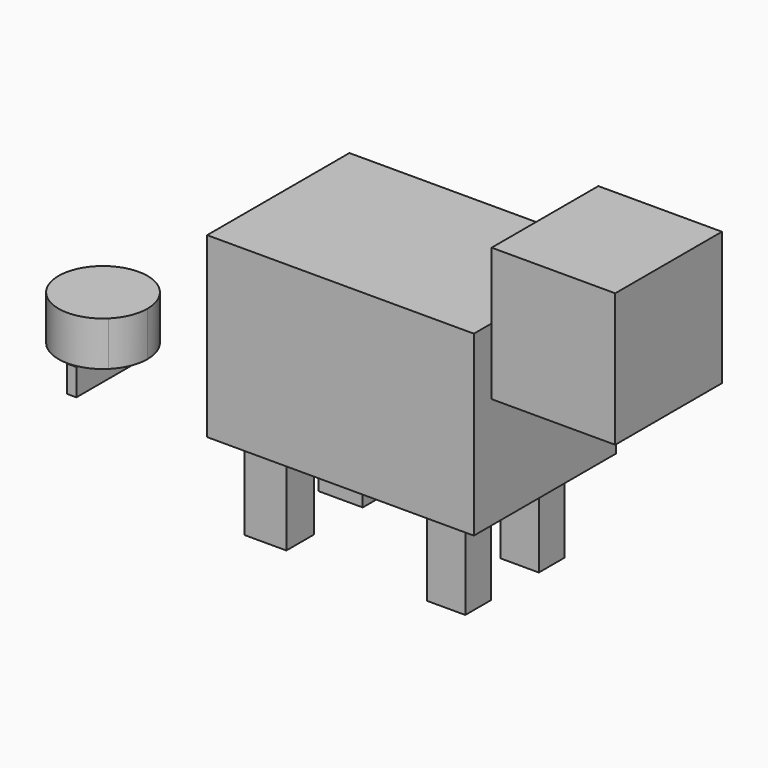
from build123d import *

# Parameters (mm, degrees)
F0_W      = 76.2
F0_H      = 50.8
F1_DEPTH  = 50.8
F2_W      = 38.1
F2_H      = 38.1
F3_DEPTH  = 35.306
F4_W      = 11.982116
F4_H      = 9.772219
F4_W_2    = 12.59288
F4_H_2    = 9.772213
F4_W_3    = 10.993734
F4_H_3    = 9.161458
F4_H_4    = 9.16145
F5_DEPTH  = 25.4
F6_R      = 12.7
F7_DEPTH  = 12.7
F9_DEPTH  = 12.7
F10_W     = 2.748438
F10_H     = 25.041297
F11_DEPTH = 7.62
F12_DEPTH = 25.4


with BuildPart() as f1:
    # F0 (on Front) → F1 (new body)
    with BuildSketch(Plane.XZ):
        with Locations((26.541545, 33.711883)):
            Rectangle(F0_W, F0_H)
    extrude(amount=F1_DEPTH)

    # F2 (on face) → F3 (join)
    with BuildSketch(Plane.YZ.offset(64.641545)):
        with Locations((-25.4, 59.111883)):
            Rectangle(F2_W, F2_H)
    extrude(amount=F3_DEPTH)

    # F4 (on face) → F5 (join)
    with BuildSketch(Plane(origin=(0, 0, 8.311883), x_dir=(1, 0, 0), z_dir=(0, 0, -1))):
        with Locations((0, 39.546926)):
            Rectangle(F4_W, F4_H)
        with Locations((0, 12.673339)):
            Rectangle(F4_W_2, F4_H_2)
        with Locations((51.115319, 39.241545)):
            Rectangle(F4_W_3, F4_H_3)
        with Locations((51.115319, 12.978721)):
            Rectangle(F4_W_3, F4_H_4)
    extrude(amount=F5_DEPTH)

    # F6 (on face) → F7 (join)
    with BuildSketch(Plane(origin=(0, 0, 8.311883), x_dir=(1, 0, 0), z_dir=(0, 0, -1))):
        with BuildLine():
            Line((-66.995779, 20.58823), (-49.30094, 38.810447))
            ThreePointArc((-49.30094, 38.810447), (-67.280696, 38.567372), (-66.995779, 20.58823))
        make_face()
        with BuildLine():
            ThreePointArc((-66.995779, 20.58823), (-53.209873, 18.028416), (-45.469563, 29.719929))
            ThreePointArc((-45.469563, 29.719929), (-46.46654, 34.652397), (-49.30094, 38.810447))
            Line((-49.30094, 38.810447), (-66.995779, 20.58823))
        make_face()
        with Locations((23.623225, 26.436275)):
            Circle(F6_R)
    extrude(amount=-F7_DEPTH)

    # F6 (on face) → F9 (join)
    with BuildSketch(Plane(origin=(0, 0, 8.311883), x_dir=(1, 0, 0), z_dir=(0, 0, -1))):
        with Locations((23.623225, 26.436275)):
            Circle(F6_R)
    extrude(amount=-F9_DEPTH)

    # F10 (on face) → F11 (join)
    with BuildSketch(Plane(origin=(0, 0, 8.311883), x_dir=(1, 0, 0), z_dir=(0, 0, -1))):
        with Locations((-56.837108, 30.080095)):
            Rectangle(F10_W, F10_H)
    extrude(amount=F11_DEPTH)

    # F6 (on face) → F12 (join)
    with BuildSketch(Plane(origin=(0, 0, 8.311883), x_dir=(1, 0, 0), z_dir=(0, 0, -1))):
        with Locations((23.623225, 26.436275)):
            Circle(F6_R)
    extrude(amount=-F12_DEPTH)


solid = f1.part
